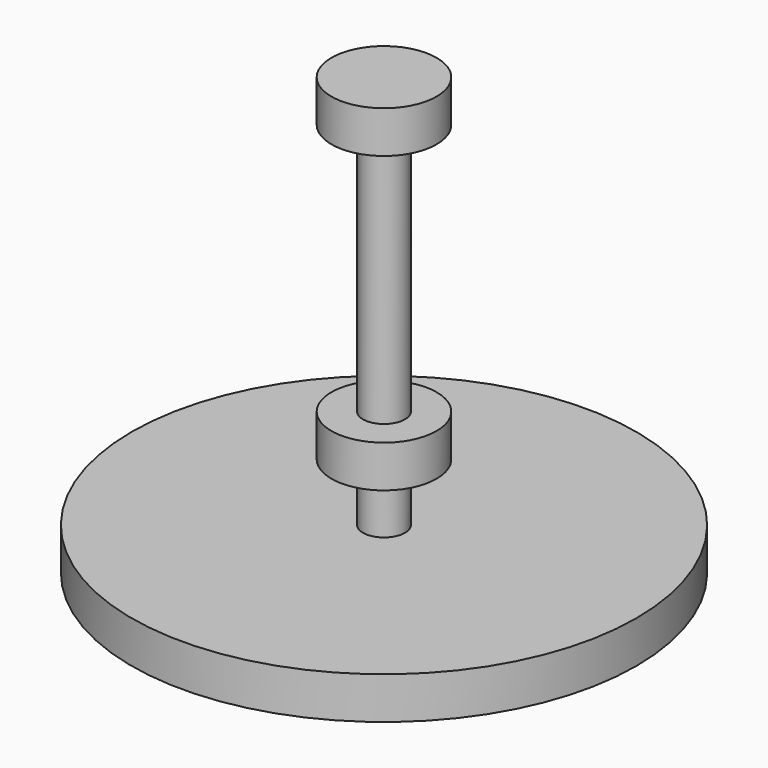
from build123d import *

# Parameters (mm, degrees)
F0_W = 25.4
F0_H = 69.85


with BuildPart() as f1:
    # F0 (on Front) → F1 (revolve)
    with BuildSketch(Plane.XZ):
        Polygon((63.5, -152.4), (25.4, -152.4), (25.4, -88.9), (25.4, -76.2), (25.4, 152.4), (63.5, 152.4), (63.5, 203.2), (0, 203.2), (0, 152.4), (0, -152.4), (0, -203.2), (25.4, -203.2), (63.5, -203.2), align=None)
        with Locations((12.7, -238.125)):
            Rectangle(F0_W, F0_H)
        Polygon((304.8, -273.05), (25.4, -273.05), (0, -273.05), (0, -323.85), (304.8, -323.85), align=None)
    revolve(axis=Axis((0, 0, 0), (0, 0, 1)))


solid = f1.part
